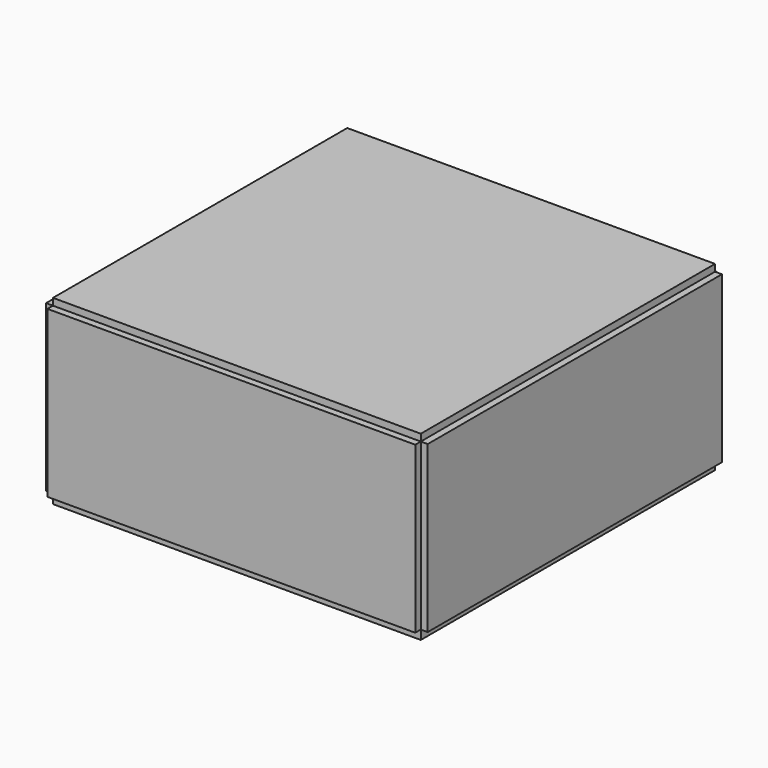
from build123d import *

# Parameters (mm, degrees)
F1_W      = 8000
F1_H      = 3600
F8_DEPTH  = 150
F2_W      = 8000
F2_H      = 3600
F9_DEPTH  = 150
F0_W      = 8000
F0_H      = 8000
F10_DEPTH = 200
F11_W     = 8000
F11_H     = 3600
F14_DEPTH = 150
F12_W     = 8000
F12_H     = 3600
F15_DEPTH = 25
F13_W     = 8000
F13_H     = 8000
F16_DEPTH = 150
F7_W      = 610
F7_H      = 610
F17_DEPTH = 25


with BuildPart() as f8:
    # F1 (on Right) → F8 (new body)
    with BuildSketch(Plane.YZ):
        with Locations((4000, 1800)):
            Rectangle(F1_W, F1_H)
    extrude(amount=-F8_DEPTH)


with BuildPart() as f9:
    # F2 (on Front) → F9 (new body)
    with BuildSketch(Plane.XZ):
        with Locations((4000, 1800)):
            Rectangle(F2_W, F2_H)
    extrude(amount=F9_DEPTH)


with BuildPart() as f10:
    # F0 (on Top) → F10 (new body)
    with BuildSketch(Plane.XY):
        with Locations((4000, 4000)):
            Rectangle(F0_W, F0_H)
    extrude(amount=-F10_DEPTH)


with BuildPart() as f14:
    # F11 (on 3pt) → F14 (new body)
    with BuildSketch(Plane(origin=(8000, 0, 0), x_dir=(0, -1, 0), z_dir=(-1, 0, 0))):
        with Locations((-4000, 1800)):
            Rectangle(F11_W, F11_H)
    extrude(amount=-F14_DEPTH)


with BuildPart() as f15:
    # F12 (on 3pt) → F15 (new body)
    with BuildSketch(Plane(origin=(0, 8000, 0), x_dir=(-1, 0, 0), z_dir=(0, 1, 0))):
        with Locations((-4000, 1800)):
            Rectangle(F12_W, F12_H)
    extrude(amount=F15_DEPTH)


with BuildPart() as f16:
    # F13 (on 3pt) → F16 (new body)
    with BuildSketch(Plane(origin=(0, 0, 3600), x_dir=(1, 0, 0), z_dir=(0, 0, -1))):
        with Locations((4000, -4000)):
            Rectangle(F13_W, F13_H)
    extrude(amount=-F16_DEPTH)


with BuildPart() as f17:
    # F7 (on offset) → F17 (new body)
    with BuildSketch(Plane.XY.offset(600)):
        with Locations((305, 305)):
            Rectangle(F7_W, F7_H)
    extrude(amount=-F17_DEPTH)


solid = Compound([f8.part, f9.part, f10.part, f14.part, f15.part, f16.part, f17.part])
